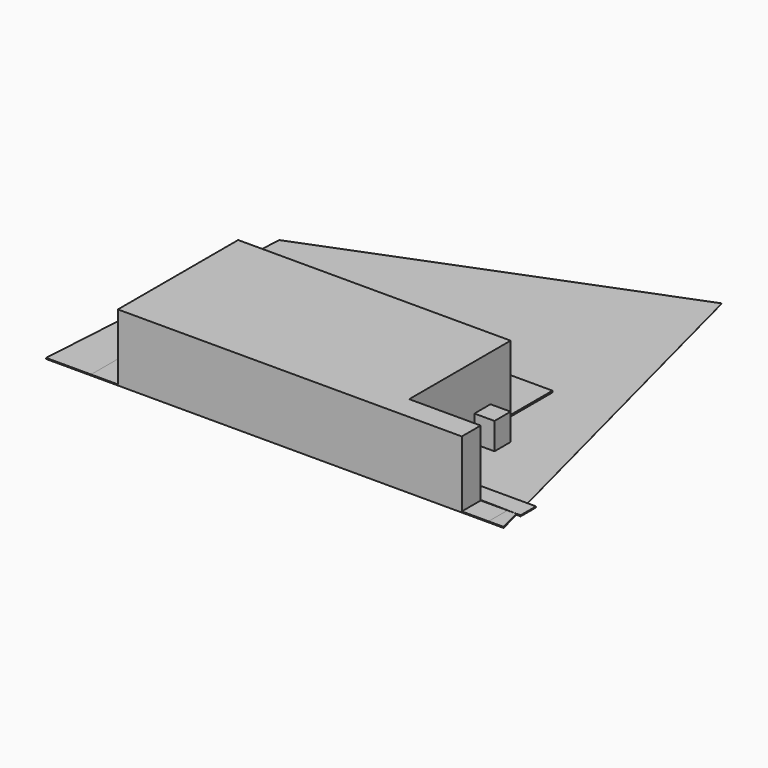
from build123d import *

# Parameters (mm, degrees)
F2_DEPTH  = 254
F3_W      = 116.416667
F3_H      = 76.2
F4_DEPTH  = 6.35
F5_W      = 76.2
F5_H      = 76.2
F6_DEPTH  = 101.6
F8_DEPTH  = 6.35
F9_W      = 101.6
F9_H      = 569.956277
F9_H_2    = 89.472944
F10_DEPTH = 3.81
F12_DEPTH = 3.81
F13_W     = 645.583333
F13_H     = 101.6
F14_DEPTH = 3.81
F16_DEPTH = 6.35
F17_DEPTH = 0.254


with BuildPart() as f2:
    # F1 (on face) → F2 (new body)
    with BuildSketch(Plane.XY):
        Polygon((0, 0), (-1032.933333, 0), (-1032.933333, -569.956277), (270.933333, -569.956277), (270.933333, -480.483333), (0, -480.483333), align=None)
    extrude(amount=F2_DEPTH)


with BuildPart() as f4:
    # F3 (on face) → F4 (new body)
    with BuildSketch(Plane.XY):
        with Locations((58.208333, -442.383333)):
            Rectangle(F3_W, F3_H)
        Polygon((-488.95, 198.47922), (-488.95, 0), (-342.9, 0), (-342.9, 96.87922), (-186.266667, 96.87922), (-186.266667, 198.47922), align=None)
    extrude(amount=F4_DEPTH)


with BuildPart() as f6:
    # F5 (on face) → F6 (new body)
    with BuildSketch(Plane.XY):
        with Locations((63.5, -165.1)):
            Rectangle(F5_W, F5_H)
    extrude(amount=F6_DEPTH)


with BuildPart() as f8:
    # F7 (on face) → F8 (new body)
    with BuildSketch(Plane.XY):
        Polygon((-673.1, 0), (-550.333333, 0), (-571.88538, 80.433333), (-651.547953, 80.433333), align=None)
        Polygon((-944.033333, 0), (-821.266667, 0), (-842.818713, 80.433333), (-922.481287, 80.433333), align=None)
    extrude(amount=F8_DEPTH)


with BuildPart() as f10:
    # F9 (on face) → F10 (new body)
    with BuildSketch(Plane.XY):
        with Locations((-1083.733333, -284.978139)):
            Rectangle(F9_W, F9_H)
        with Locations((321.733333, -525.219805)):
            Rectangle(F9_W, F9_H_2)
    extrude(amount=F10_DEPTH)


with BuildPart() as f12:
    # F11 (on face) → F12 (new body, through all)
    with BuildSketch(Plane.XY):
        Polygon((429.516294, -569.956277), (406.4, -480.483333), (372.533333, -480.483333), (372.533333, -569.956277), align=None)
        Polygon((-1134.533333, -569.956277), (-1134.533333, 0), (-1270, 0), (-1305.238767, -569.956277), align=None)
    extrude(amount=F12_DEPTH)


with BuildPart() as f14:
    # F13 (on face) → F14 (new body, through all)
    with BuildSketch(Plane.XY):
        with Locations((-811.741666, 50.8)):
            Rectangle(F13_W, F13_H)
        Polygon((117.585622, -474.26194), (422.343582, -480.524063), (422.343582, -407.465667), (117.585622, -407.465667), align=None)
    extrude(amount=F14_DEPTH)


with BuildPart() as f16:
    # F15 (on face) → F16 (new body, through all)
    with BuildSketch(Plane.XY):
        Polygon((0, 198.47922), (-186.266667, 198.47922), (-186.266667, 96.87922), (-342.9, 96.87922), (-342.9, 0), (0, 0), align=None)
    extrude(amount=F16_DEPTH)


with BuildPart() as f17:
    # F0 (on Top) → F17 (new body)
    with BuildSketch(Plane.XY):
        Polygon((-1270, 0), (0, 0), (0, -480.483333), (406.4, -480.483333), (34.706744, 958.176784), (-1241.786504, 456.328652), align=None)
    extrude(amount=F17_DEPTH)


solid = Compound([f2.part, f4.part, f6.part, f8.part, f10.part, f12.part, f14.part, f16.part, f17.part])
